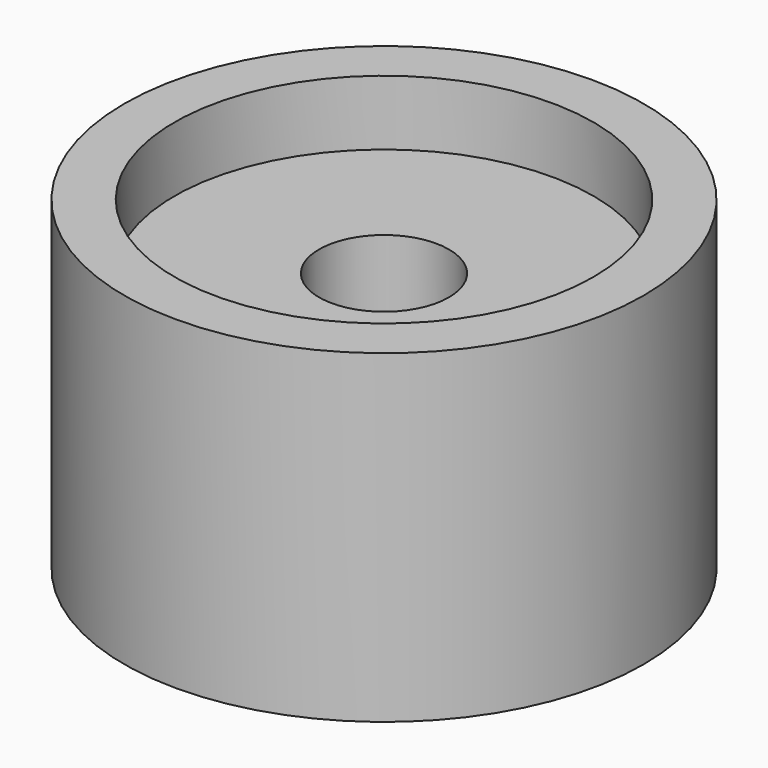
from build123d import *

# Parameters (mm, degrees)
F0_R     = 4
F1_DEPTH = 5
F2_R     = 3.226703
F3_DEPTH = 1
F4_R     = 1
F5_DEPTH = 4.001


with BuildPart() as f1:
    # F0 (on Top) → F1 (new body)
    with BuildSketch(Plane.XY):
        Circle(F0_R)
    extrude(amount=F1_DEPTH)

    # F2 (on face) → F3 (cut)
    with BuildSketch(Plane.XY.offset(5)):
        Circle(F2_R)
    extrude(amount=-F3_DEPTH, mode=Mode.SUBTRACT)

    # F4 (on face) → F5 (cut, through all)
    with BuildSketch(Plane.XY.offset(4)):
        Circle(F4_R)
    extrude(amount=-F5_DEPTH, mode=Mode.SUBTRACT)


solid = f1.part
